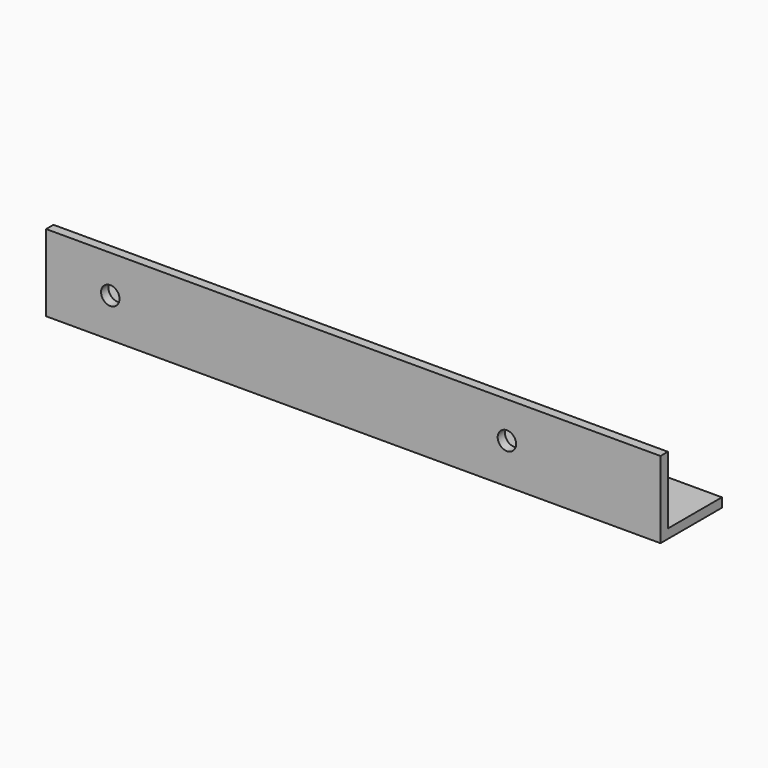
from build123d import *

# Parameters (mm, degrees)
F1_DEPTH = 200
F2_R     = 3
F3_DEPTH = 25


with BuildPart() as f1:
    # F0 (on Right) → F1 (new body)
    with BuildSketch(Plane.YZ):
        Polygon((3, 25), (0, 25), (0, 0), (25, 0), (25, 3), (3, 3), align=None)
    extrude(amount=F1_DEPTH)

    # F2 (on face) → F3 (cut)
    with BuildSketch(Plane(origin=(0, 3, 0), x_dir=(-1, 0, 0), z_dir=(0, 1, 0))):
        with Locations((-150, 13.12149)):
            Circle(F2_R)
        with Locations((-20.9, 12.738971)):
            Circle(F2_R)
    extrude(amount=-F3_DEPTH, mode=Mode.SUBTRACT)


solid = f1.part
